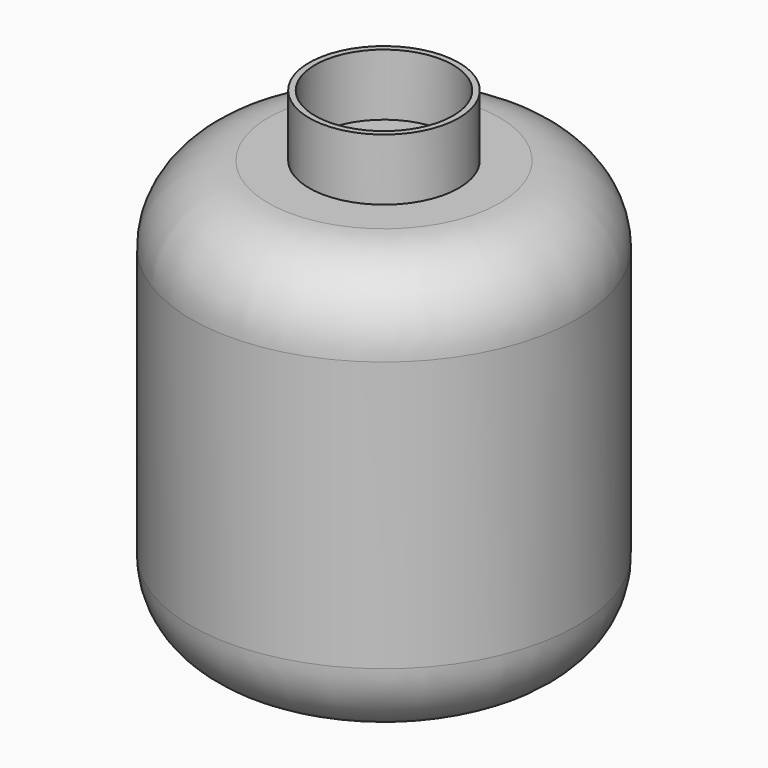
from build123d import *

# Parameters (mm, degrees)
F0_R     = 500
F1_DEPTH = 1100
F2_R     = 200
F3_R     = 194.129707
F3_R_2   = 178.794503
F4_DEPTH = 160


with BuildPart() as f1:
    # F0 (on Top) → F1 (new body)
    with BuildSketch(Plane.XY):
        Circle(F0_R)
    extrude(amount=F1_DEPTH)

    # F2
    f2_edges = [f1.edges().sort_by_distance(p)[0] for p in [
        (-500, 0, 0),
        (-500, 0, 1100),
    ]]
    fillet(f2_edges, radius=F2_R)

    # F3 (on face) → F4 (join)
    with BuildSketch(Plane.XY.offset(1100)):
        Circle(F3_R)
        Circle(F3_R_2, mode=Mode.SUBTRACT)
    extrude(amount=F4_DEPTH)


solid = f1.part
